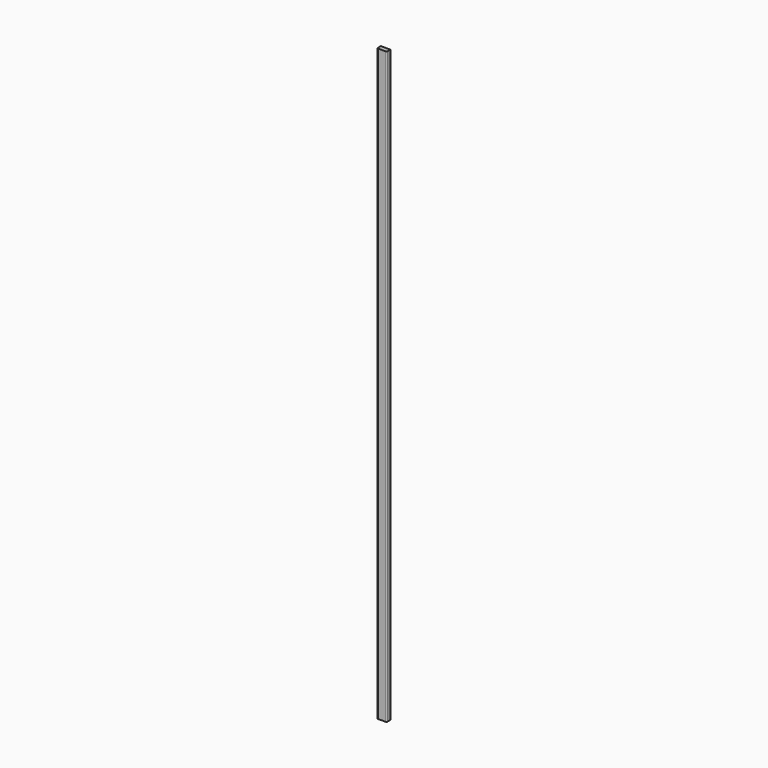
from build123d import *

# Parameters (mm, degrees)
F1_DEPTH = 2800


with BuildPart() as f1:
    # F0 (on Top) → F1 (new body)
    with BuildSketch(Plane.XY):
        with BuildLine():
            ThreePointArc((0, 5), (1.464466, 1.464466), (5, 0))
            Line((5, 0), (40, 0))
            ThreePointArc((40, 0), (43.535534, 1.464466), (45, 5))
            Line((45, 5), (45, 22))
            Line((45, 22), (0, 22))
            Line((0, 22), (0, 5))
        make_face()
    extrude(amount=F1_DEPTH)


solid = f1.part
